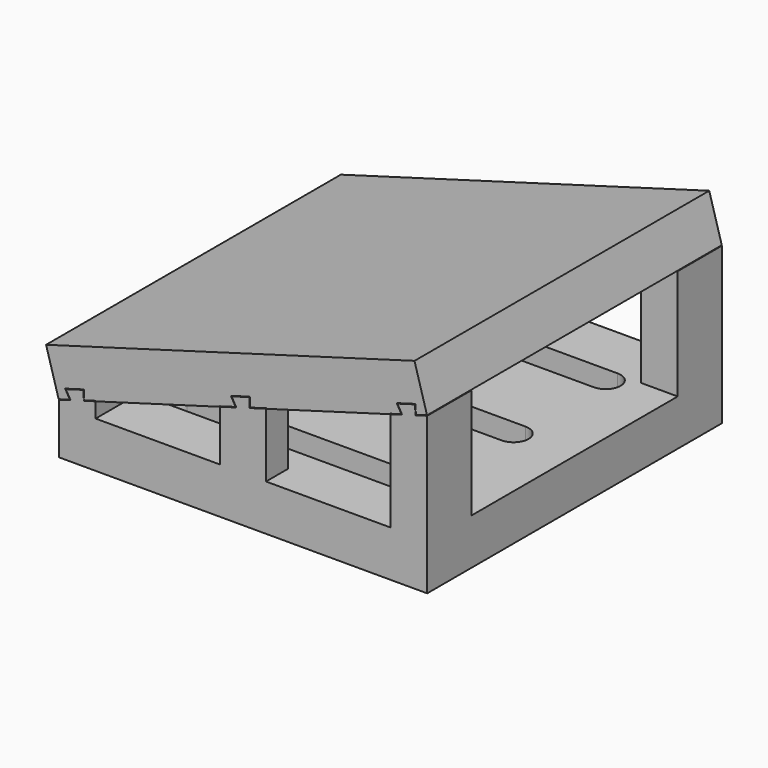
from build123d import *

# Parameters (mm, degrees)
F0_W      = 80
F0_H      = 80
F1_DEPTH  = 10
F3_DEPTH  = 10
F4_W      = 8
F4_H      = 80
F4_W_2    = 10
F4_H_2    = 6
F4_H_3    = 12
F5_DEPTH  = 80
F7_DEPTH  = 80.001
F10_W     = 83.2239548689
F10_H     = 80
F11_DEPTH = 10
F13_DEPTH = 80.001


with BuildPart() as f1:
    # F0 (on Top) → F1 (new body)
    with BuildSketch(Plane.XY):
        Rectangle(F0_W, F0_H)
    extrude(amount=F1_DEPTH)

    # F2 (on face) → F3 (cut, through all)
    with BuildSketch(Plane.XY.offset(10)):
        with BuildLine():
            ThreePointArc((-26.75, 28.25), (-30, 25), (-26.75, 21.75))
            Line((-26.75, 21.75), (26.75, 21.75))
            ThreePointArc((26.75, 21.75), (30, 25), (26.75, 28.25))
            Line((26.75, 28.25), (-26.75, 28.25))
        make_face()
        with BuildLine():
            Line((26.75, 3.25), (-26.75, 3.25))
            ThreePointArc((-26.75, 3.25), (-30, 0), (-26.75, -3.25))
            Line((-26.75, -3.25), (26.75, -3.25))
            ThreePointArc((26.75, -3.25), (30, 0), (26.75, 3.25))
        make_face()
        with BuildLine():
            Line((26.75, -21.75), (-26.75, -21.75))
            ThreePointArc((-26.75, -21.75), (-30, -25), (-26.75, -28.25))
            Line((-26.75, -28.25), (26.75, -28.25))
            ThreePointArc((26.75, -28.25), (30, -25), (26.75, -21.75))
        make_face()
    extrude(amount=-F3_DEPTH, mode=Mode.SUBTRACT)

    # F4 (on face) → F5 (join)
    with BuildSketch(Plane.XY.offset(10)):
        with Locations((-36, 0)):
            Rectangle(F4_W, F4_H)
        with Locations((0, -37)):
            Rectangle(F4_W_2, F4_H_2)
        with Locations((36, -34)):
            Rectangle(F4_W, F4_H_3)
    extrude(amount=F5_DEPTH)

    # F6 (on face) → F7 (cut, through all)
    with BuildSketch(Plane.XZ.offset(40)):
        Polygon((40, 33.9396308607), (62.9050343134, 40.5075437607), (62.9050343134, 116.6192118451), (-43.2359185175, 116.6192118451), (-43.4874144438, 10), (-40, 11), (-37.4418925439, 11.7335255093), (-38.4737981035, 13.5182302233), (-34.6287513198, 14.6207796465), (-34.5581074561, 12.5604375768), (-32, 13.2939630861), (-5, 21.0360885016), (-1.4418925439, 22.0563593966), (-2.4737981035, 23.8410641106), (1.3712486802, 24.9436135339), (1.4418925439, 22.8832714641), (5, 23.9035423591), (32, 31.6456677746), (34.5581074561, 32.3791932839), (33.5262018965, 34.1638979979), (37.3712486802, 35.2664474212), (37.4418925439, 33.2061053514), align=None)
    extrude(amount=-F7_DEPTH, mode=Mode.SUBTRACT)

    # F8: F1 across plane


with BuildPart() as f1_1:
    add(f1.part)
    add(f1.part.mirror(Plane.XZ))


with BuildPart() as f11:
    # F10 (on offset) → F11 (new body, through all)
    with BuildSketch(Plane(origin=(-8.7099675883, 0, 30.3752667729), x_dir=(0.9612616959, 0, 0.2756373558), z_dir=(-0.2756373558, 0, 0.9612616959))):
        with Locations((6.1935205109, 0)):
            Rectangle(F10_W, F10_H)
    extrude(amount=-F11_DEPTH)

    # F12 (on face) → F13 (cut, through all)
    with BuildSketch(Plane.XZ.offset(40)):
        Polygon((-1.5925724095, 22.117182584), (-5.1, 21.1114439066), (-5.1, 10.1), (-31.9, 10.1), (-31.9, 13.4266675682), (-34.4625550616, 12.6918667286), (-34.5331989253, 14.7522087983), (-38.6244779691, 13.5790534107), (-37.5925724095, 11.7943486967), (-40.1, 11.075355405), (-40.1, -0.1), (40.1, -0.1), (40.1, 34.0723353429), (37.5374449384, 33.3375345032), (37.4668010747, 35.397876573), (33.3755220309, 34.2247211853), (34.4074275905, 32.4400164713), (31.9, 31.7210231796), (31.9, 10.1), (5.1, 10.1), (5.1, 24.0362468413), (1.5374449384, 23.0147006159), (1.4668010747, 25.0750426857), (-2.6244779691, 23.901887298), align=None)
    extrude(amount=-F13_DEPTH, mode=Mode.SUBTRACT)


solid = Compound([f1_1.part, f11.part])
